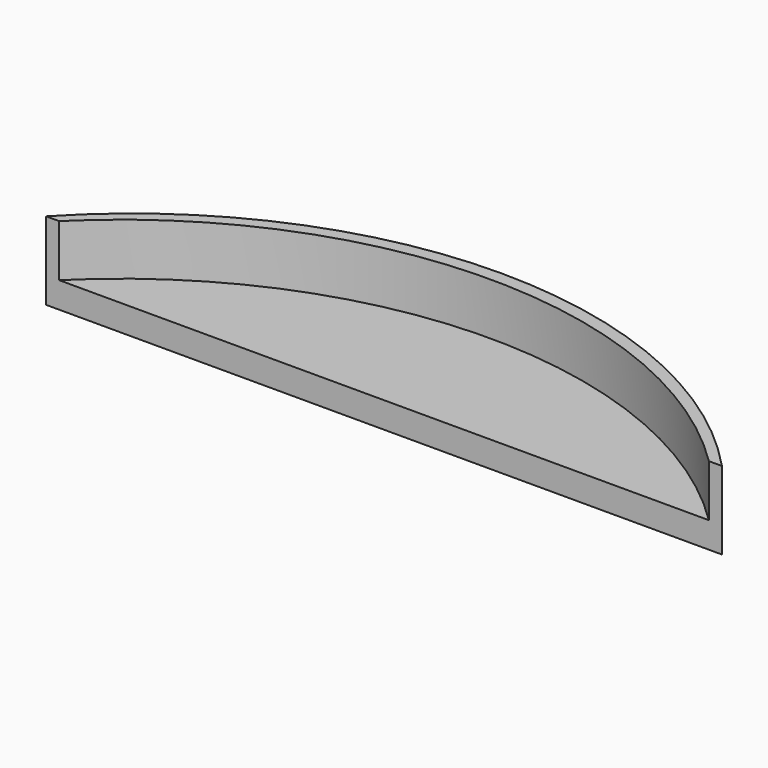
from build123d import *

# Parameters (mm, degrees)
F1_DEPTH = 5
F3_DEPTH = 10


with BuildPart() as f1:
    # F0 (on Top) → F1 (new body)
    with BuildSketch(Plane.XY):
        with BuildLine():
            Line((-65, 60.648248), (65, 60.648248))
            ThreePointArc((65, 60.648248), (0, 88.9), (-65, 60.648248))
        make_face()
    extrude(amount=F1_DEPTH)

    # F2 (on face) → F3 (join)
    with BuildSketch(Plane.XY.offset(5)):
        with BuildLine():
            ThreePointArc((-62.5, 60.648248), (0, 86.326733), (62.5, 60.648248))
            Line((62.5, 60.648248), (65, 60.648248))
            ThreePointArc((65, 60.648248), (0, 88.9), (-65, 60.648248))
            Line((-65, 60.648248), (-62.5, 60.648248))
        make_face()
    extrude(amount=F3_DEPTH)


solid = f1.part
